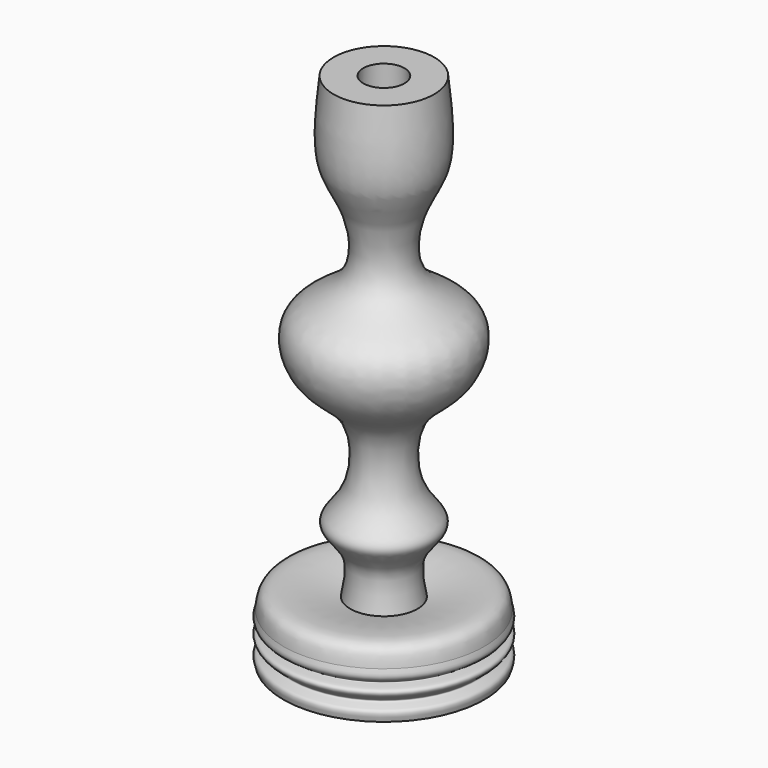
from build123d import *


with BuildPart() as f1:
    # F0 (on Front) → F1 (revolve)
    with BuildSketch(Plane.XZ):
        with BuildLine():
            add(Edge.make_bspline(
                [(-5.2074189298, 62.0027338934), (-5.5540642341, 55.3628462812), (-6.1339202666, 44.255876595), (-4.6423445499, 34.1735688644), (-1.3207512747, 33.9888256507), (0, 33.9153669775)],
                knots=[0, 0, 0, 0, 0.4723988736, 0.7902121655, 1, 1, 1, 1], degree=3))
            Line((-5.2074189298, 62.0027338934), (-12.7, 62.0027338934))
            add(Edge.make_bspline(
                [(-8.4992330521, -53.82168293), (-7.805592946, -50.2146479564), (-6.5103860708, -43.4793734882), (-15.3333397026, -37.1506543056), (-6.3630628912, -30.8479754429), (-5.9160429628, -12.154355068), (-19.4329988708, -6.1643845878), (-22.9720402644, 10.2611636379), (-5.0011420467, 15.6361001052), (-7.6093202031, 33.2237746452), (-14.8467845766, 42.1475519975), (-13.4773056299, 54.8135893285), (-12.7, 62.0027338934)],
                knots=[0, 0, 0, 0, 0.0897266186, 0.167542984, 0.2480133542, 0.3612196407, 0.4656496832, 0.5653735773, 0.673723005, 0.7809668196, 0.8756784654, 1, 1, 1, 1], degree=3))
            add(Edge.make_bspline(
                [(-25.4, -56.7118413746), (-25.2239554198, -55.0551455349), (-24.7219709796, -50.3311402128), (-14.8858518865, -52.4475150208), (-8.4992330521, -53.82168293)],
                knots=[0, 0, 0, 0, 0.3506972848, 1, 1, 1, 1], degree=3))
            add(Edge.make_bspline(
                [(-25.4, -68.5165755995), (-25.6998644177, -67.5305019746), (-26.2882868704, -65.5955346138), (-21.8294111297, -65.2419948838), (-25.8177956605, -63.147819536), (-25.9367097619, -61.070102013), (-21.8268383575, -61.1108104664), (-26.2922470591, -59.3602886782), (-25.693832069, -57.5840199298), (-25.4, -56.7118413746)],
                knots=[0, 0, 0, 0, 0.14809131, 0.2905988398, 0.4506069501, 0.5628642389, 0.7006642857, 0.8530210077, 1, 1, 1, 1], degree=3))
            Line((-25.4, -68.5165755995), (0, -68.5165755995))
            Line((0, -68.5165755995), (0, 33.9153669775))
        make_face()
    revolve(axis=Axis((0, 0, -1.291531997), (0, 0, -1)))


solid = f1.part
